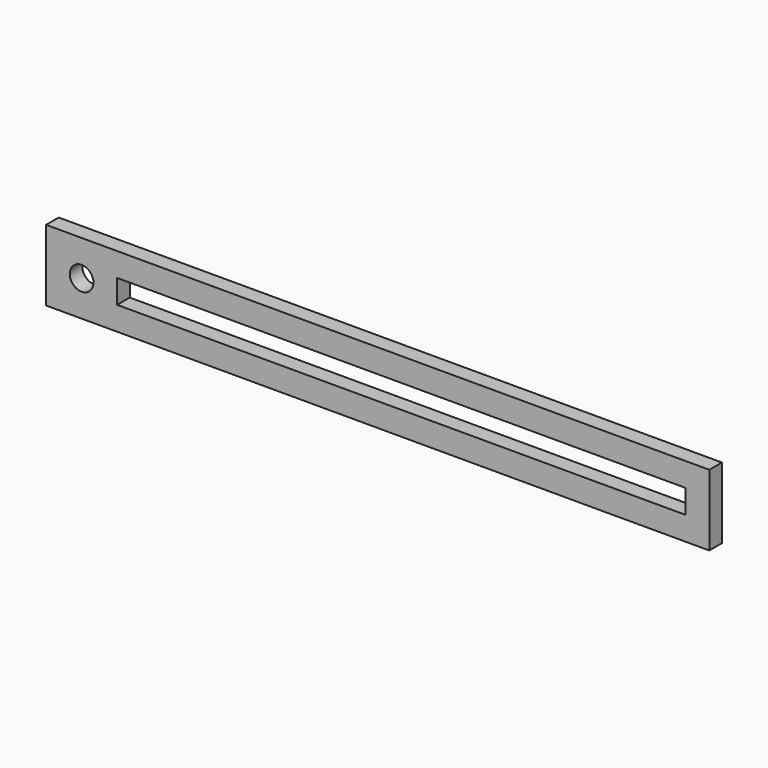
from build123d import *

# Parameters (mm, degrees)
F0_W     = 84
F0_H     = 9
F0_R     = 1.5
F0_W_2   = 72
F0_H_2   = 3
F1_DEPTH = 2


with BuildPart() as f1:
    # F0 (on Front) → F1 (new body)
    with BuildSketch(Plane.XZ):
        Rectangle(F0_W, F0_H)
        with Locations((-37.5, 0)):
            Circle(F0_R, mode=Mode.SUBTRACT)
        with Locations((3, 0)):
            Rectangle(F0_W_2, F0_H_2, mode=Mode.SUBTRACT)
    extrude(amount=F1_DEPTH)


solid = f1.part
